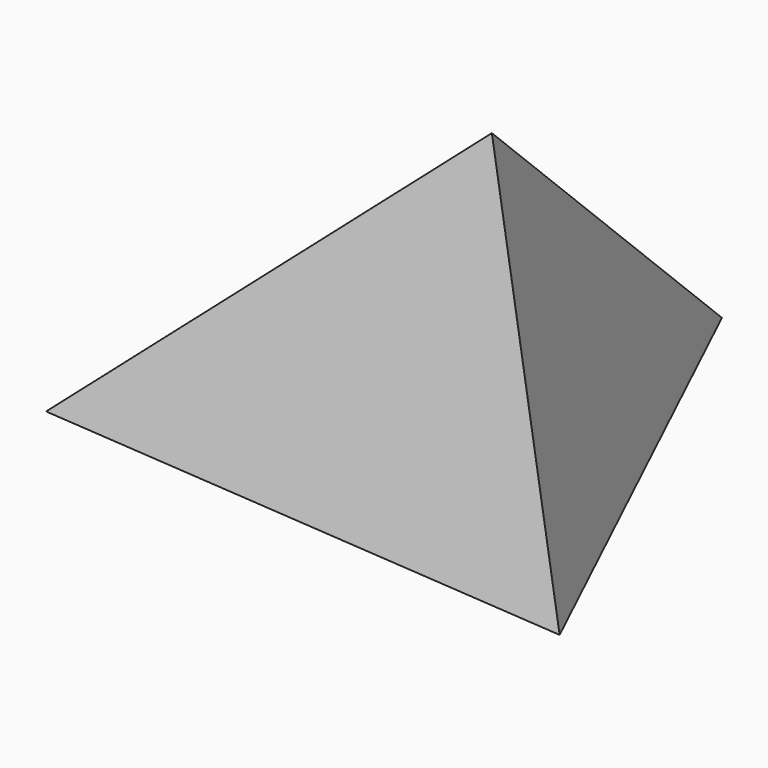
from build123d import *


with BuildPart() as f3:
    # F0 (on Top) → F3 section 0
    with BuildSketch(Plane.XY, mode=Mode.PRIVATE) as f3_s0:
        Polygon((-113.584501, -18.819057), (44.89005, -31.676121), (-23.212681, 111.995398), align=None)
    loft([f3_s0.sketch, Vertex(0, 0, 100)])


solid = f3.part
